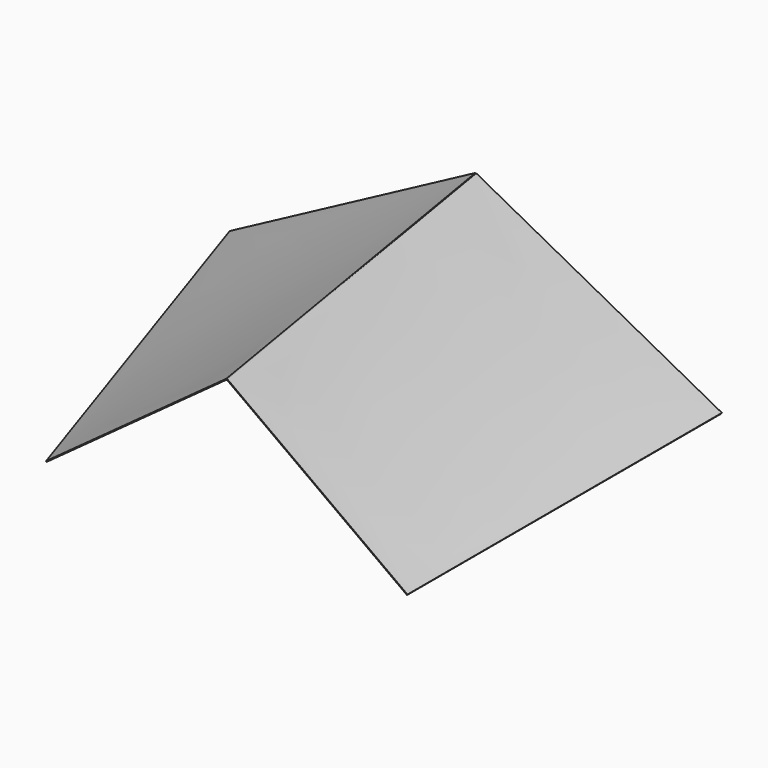
from build123d import *


with BuildPart() as f5:
    # F3 (on face) → F5 section 0
    with BuildSketch(Plane.XZ):
        Polygon((0, 800), (1500, 0), (1502.352941, 4.411765), (2.352941, 804.411765), align=None)
    # F4 (on face) → F5 section 1
    with BuildSketch(Plane.XZ.offset(2400)):
        Polygon((400, 800), (1500, 0), (1502.940858, 4.04368), (402.940858, 804.04368), align=None)
    loft()


with BuildPart() as f8:
    # F6 (on face) → F8 section 0
    with BuildSketch(Plane.XZ):
        Polygon((-1500, 0), (0, 800), (-2.352941, 804.411765), (-1502.352941, 4.411765), align=None)
    # F7 (on face) → F8 section 1
    with BuildSketch(Plane.XZ.offset(2400)):
        Polygon((-700, 0), (400, 800), (397.059142, 804.04368), (-702.940858, 4.04368), align=None)
    loft()


solid = Compound([f5.part, f8.part])
